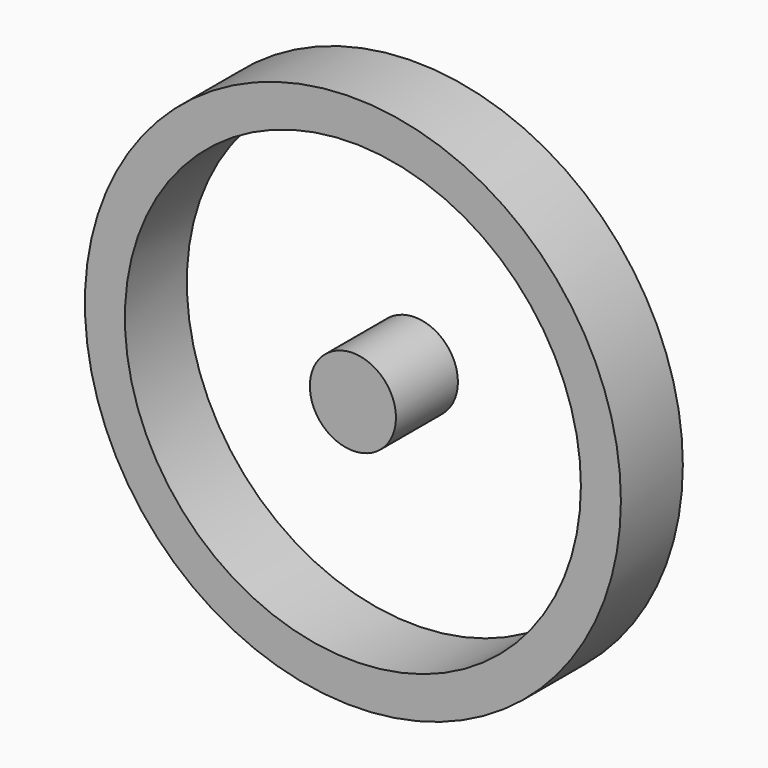
from build123d import *

# Parameters (mm, degrees)
F0_R     = 43.96227
F0_R_2   = 37.399802
F1_DEPTH = 12.7
F2_R     = 7.064445
F3_DEPTH = 12.7


with BuildPart() as f1:
    # F0 (on Front) → F1 (new body)
    with BuildSketch(Plane.XZ):
        Circle(F0_R)
        Circle(F0_R_2, mode=Mode.SUBTRACT)
    extrude(amount=F1_DEPTH)


with BuildPart() as f3:
    # F2 (on Front) → F3 (new body)
    with BuildSketch(Plane.XZ):
        Circle(F2_R)
    extrude(amount=F3_DEPTH)


solid = Compound([f1.part, f3.part])
